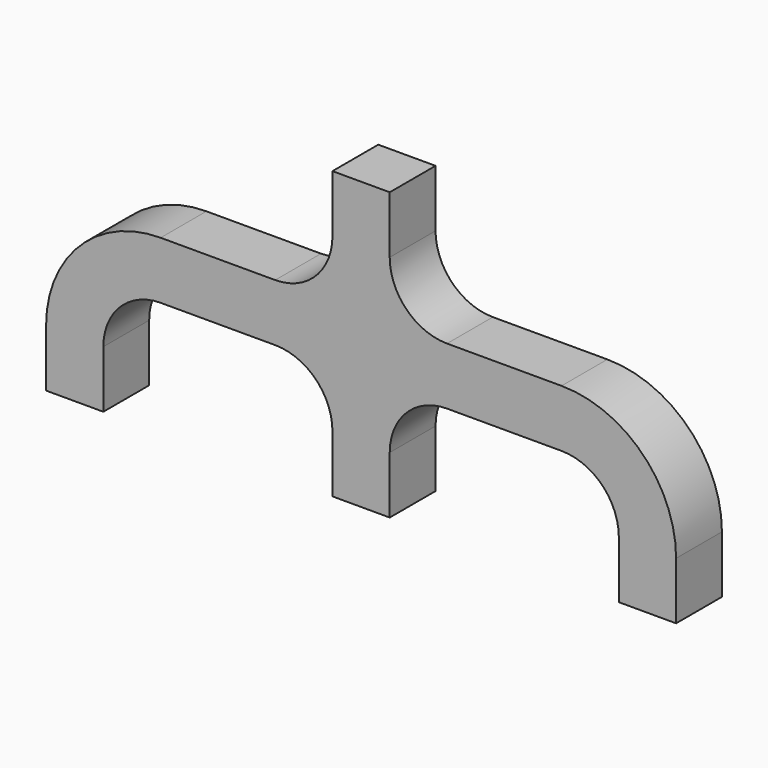
from build123d import *

# Parameters (mm, degrees)
F1_DEPTH = 2.54
F2_R     = 5.08
F3_R     = 10.16


with BuildPart() as f1:
    # F0 (on Front) → F1 (new body, symmetric)
    with BuildSketch(Plane.XZ):
        Polygon((-27.94, 0), (-22.86, 0), (-22.86, 10.16), (-2.54, 10.16), (-2.54, 0), (2.54, 0), (2.54, 10.16), (22.86, 10.16), (22.86, 0), (27.94, 0), (27.94, 15.24), (2.54, 15.24), (2.54, 25.4), (-2.54, 25.4), (-2.54, 15.24), (-27.94, 15.24), align=None)
    extrude(amount=F1_DEPTH, both=True)

    # F2
    f2_edges = [f1.edges().sort_by_distance(p)[0] for p in [
        (2.54, 0, 15.24),
        (2.54, 0, 10.16),
        (-2.54, 0, 10.16),
        (-2.54, 0, 15.24),
        (22.86, 0, 10.16),
        (-22.86, 0, 10.16),
    ]]
    fillet(f2_edges, radius=F2_R)

    # F3
    f3_edges = [f1.edges().sort_by_distance(p)[0] for p in [
        (27.94, 0, 15.24),
        (-27.94, 0, 15.24),
    ]]
    fillet(f3_edges, radius=F3_R)


solid = f1.part
